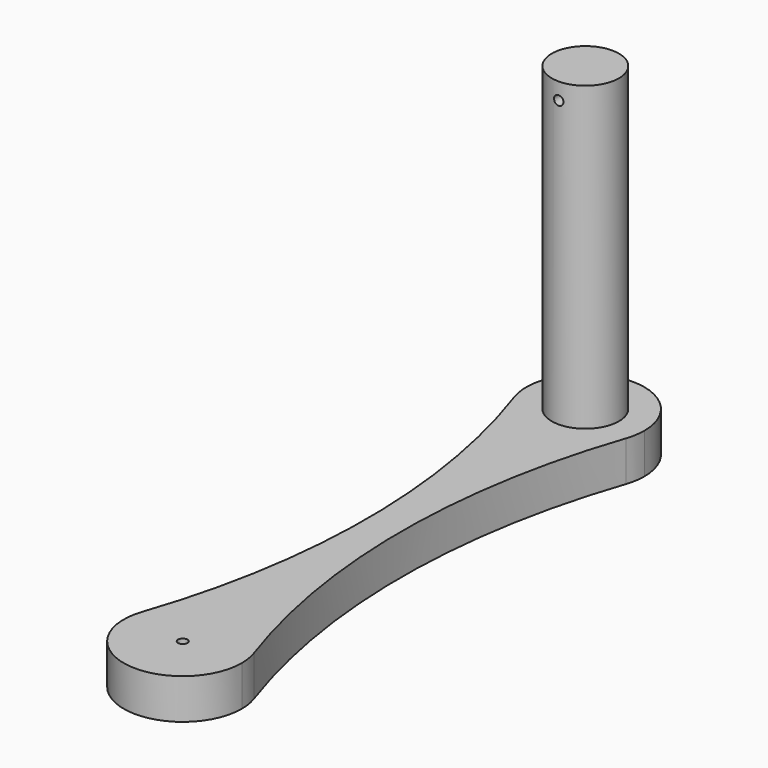
from build123d import *

# Parameters (mm, degrees)
F0_R          = 7.6
F1_DEPTH      = 12
F2_R          = 7.6
F3_DEPTH      = 2.6
F4_R          = 1.4
F5_DEPTH      = 12.001
F6_R          = 10
F7_DEPTH      = 90
F8_R          = 1.4
F9_DEPTH      = 17.601
F9_DEPTH_BACK = 167.601


with BuildPart() as f1:
    # F0 (on Top) → F1 (new body)
    with BuildSketch(Plane.XY):
        with BuildLine():
            ThreePointArc((16.6522889532, -5.697479497), (17.3614556644, -2.8878810938), (17.6, 0))
            ThreePointArc((17.6, 0), (-2.8878810938, 17.3614556644), (-16.6522889532, -5.697479497))
            ThreePointArc((-16.6522889532, -5.697479497), (0, -17.6), (16.6522889532, -5.697479497))
        make_face()
        Circle(F0_R, mode=Mode.SUBTRACT)
        with BuildLine():
            ThreePointArc((16.6522889532, -5.697479497), (0, -17.6), (-16.6522889532, -5.697479497))
            ThreePointArc((-16.6522889532, -5.697479497), (-5.1246012651, -75), (-16.6522889532, -144.302520503))
            ThreePointArc((-16.6522889532, -144.302520503), (0, -132.4), (16.6522889532, -144.302520503))
            ThreePointArc((16.6522889532, -144.302520503), (5.1246012651, -75), (16.6522889532, -5.697479497))
        make_face()
        with BuildLine():
            ThreePointArc((16.6522889532, -144.302520503), (0, -132.4), (-16.6522889532, -144.302520503))
            ThreePointArc((-16.6522889532, -144.302520503), (-2.8878810938, -167.3614556644), (17.6, -150))
            ThreePointArc((17.6, -150), (17.3614556644, -147.1121189062), (16.6522889532, -144.302520503))
        make_face()
        Circle(F0_R)
    extrude(amount=F1_DEPTH)

    # F2 (on Top) → F3 (cut)
    with BuildSketch(Plane.XY):
        Circle(F2_R)
        with Locations((0, -150)):
            Circle(F2_R)
    extrude(amount=F3_DEPTH, mode=Mode.SUBTRACT)

    # F4 (on Top) → F5 (cut, through all)
    with BuildSketch(Plane.XY):
        with Locations((0, -150)):
            Circle(F4_R)
        Circle(F4_R)
    extrude(amount=F5_DEPTH, mode=Mode.SUBTRACT)

    # F6 (on face) → F7 (join)
    with BuildSketch(Plane.XY.offset(12)):
        Circle(F6_R)
    extrude(amount=F7_DEPTH)

    # F8 (on Front) → F9 (cut, two sides)
    with BuildSketch(Plane.XZ) as f9_sk:
        with Locations((0, 97)):
            Circle(F8_R)
    extrude(amount=-F9_DEPTH, mode=Mode.SUBTRACT)
    extrude(f9_sk.sketch, amount=F9_DEPTH_BACK, mode=Mode.SUBTRACT)


solid = f1.part
